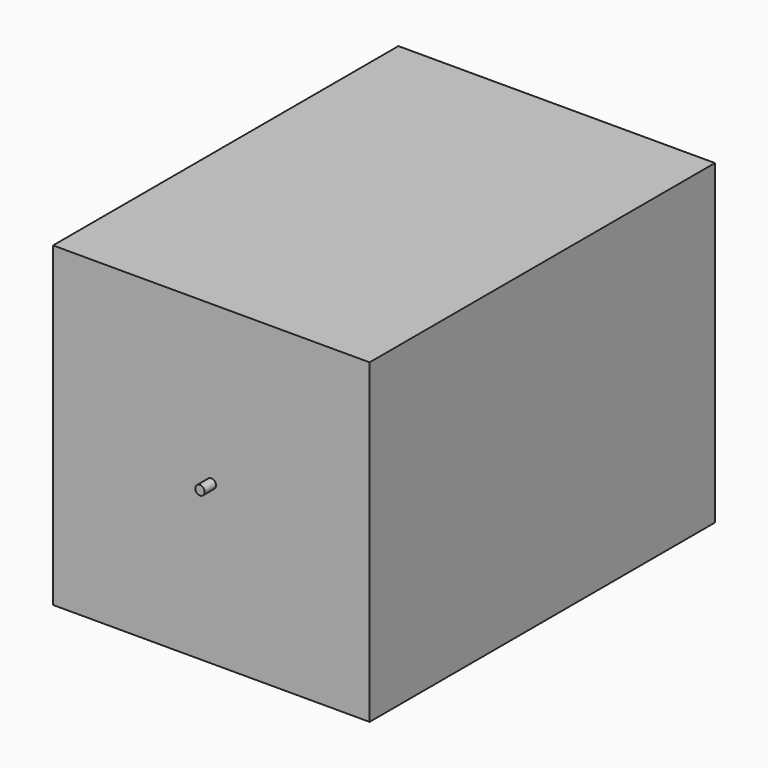
from build123d import *

# Parameters (mm, degrees)
F0_W     = 3352.8
F0_H     = 3352.8
F1_DEPTH = 4572
F2_R     = 50
F3_DEPTH = 150
F4_R     = 50
F5_DEPTH = 150


with BuildPart() as f1:
    # F0 (on Front) → F1 (new body)
    with BuildSketch(Plane.XZ):
        Rectangle(F0_W, F0_H)
    extrude(amount=F1_DEPTH)

    # F2 (on face) → F3 (join)
    with BuildSketch(Plane(origin=(0, 0, 0), x_dir=(-1, 0, 0), z_dir=(0, 1, 0))):
        Circle(F2_R)
    extrude(amount=F3_DEPTH)

    # F4 (on face) → F5 (join)
    with BuildSketch(Plane.XZ.offset(4572)):
        Circle(F4_R)
    extrude(amount=F5_DEPTH)


solid = f1.part
